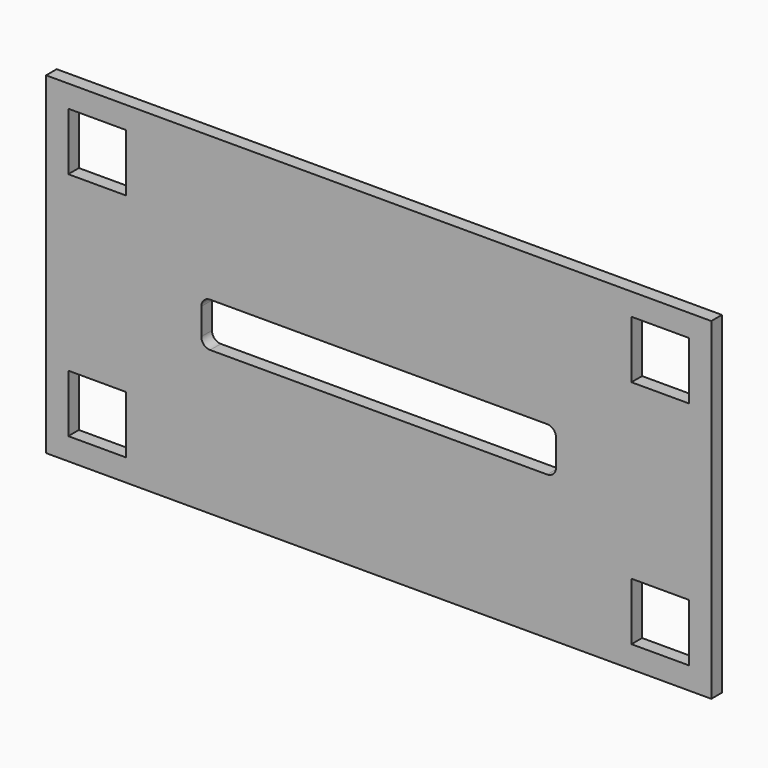
from build123d import *

# Parameters (mm, degrees)
F0_W     = 150
F0_H     = 75
F1_DEPTH = 3
F2_W     = 13
F2_H     = 13
F3_DEPTH = 4


with BuildPart() as f1:
    # F0 (on Front) → F1 (new body)
    with BuildSketch(Plane.XZ):
        with Locations((31.983163, 46.348685)):
            Rectangle(F0_W, F0_H)
    extrude(amount=F1_DEPTH)

    # F2 (on face) → F3 (cut)
    with BuildSketch(Plane.XZ.offset(3)):
        with Locations((-31.516837, 72.348685)):
            Rectangle(F2_W, F2_H)
        with Locations((-31.516837, 20.348685)):
            Rectangle(F2_W, F2_H)
        with Locations((95.483163, 20.348685)):
            Rectangle(F2_W, F2_H)
        with Locations((95.483163, 72.348685)):
            Rectangle(F2_W, F2_H)
        with BuildLine():
            Line((69.983163, 51.348685), (-6.016837, 51.348685))
            ThreePointArc((-6.016837, 51.348685), (-7.431051, 50.762899), (-8.016837, 49.348685))
            Line((-8.016837, 49.348685), (-8.016837, 43.348685))
            ThreePointArc((-8.016837, 43.348685), (-7.431051, 41.934472), (-6.016837, 41.348685))
            Line((-6.016837, 41.348685), (69.983163, 41.348685))
            ThreePointArc((69.983163, 41.348685), (71.397376, 41.934472), (71.983163, 43.348685))
            Line((71.983163, 43.348685), (71.983163, 49.348685))
            ThreePointArc((71.983163, 49.348685), (71.397376, 50.762899), (69.983163, 51.348685))
        make_face()
    extrude(amount=-F3_DEPTH, mode=Mode.SUBTRACT)


solid = f1.part
